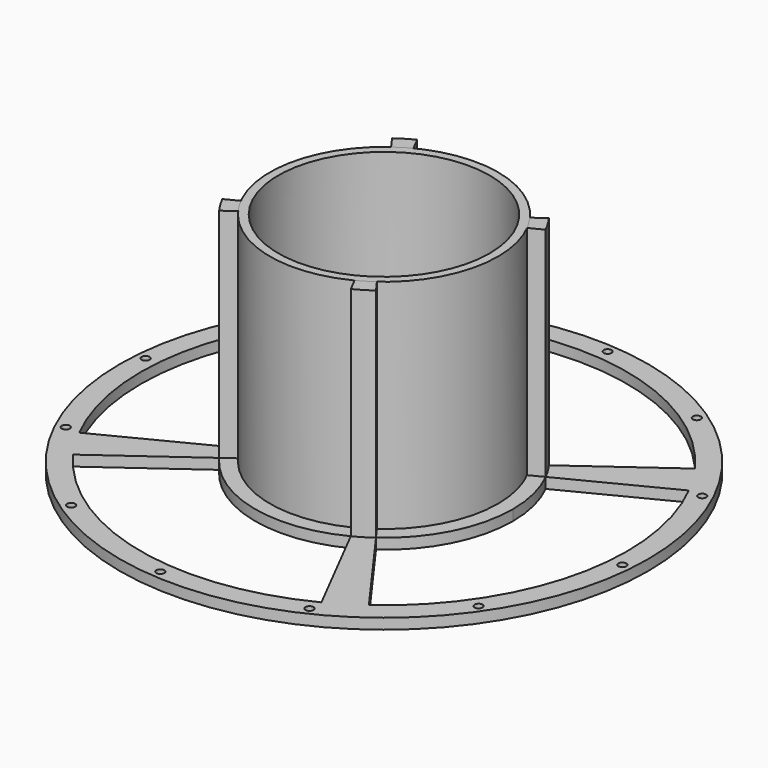
from build123d import *

# Parameters (mm, degrees)
F0_R     = 62.5
F0_R_2   = 0.95
F1_DEPTH = 2.5
F2_DEPTH = 54
F3_R     = 27
F3_R_2   = 25
F4_DEPTH = 54


with BuildPart() as f1:
    # F0 (on Top) → F1 (new body)
    with BuildSketch(Plane.XY):
        Circle(F0_R)
        with Locations((-34.2217646539, -49.7626625001)):
            Circle(F0_R_2, mode=Mode.SUBTRACT)
        with Locations((-4.7555863026, -60.206612212)):
            Circle(F0_R_2, mode=Mode.SUBTRACT)
        with Locations((-54.5182488027, -25.9848475581)):
            Circle(F0_R_2, mode=Mode.SUBTRACT)
        with Locations((25.9848475581, -54.5182488027)):
            Circle(F0_R_2, mode=Mode.SUBTRACT)
        with Locations((49.7626625001, -34.2217646539)):
            Circle(F0_R_2, mode=Mode.SUBTRACT)
        with Locations((60.206612212, -4.7555863026)):
            Circle(F0_R_2, mode=Mode.SUBTRACT)
        with Locations((-60.206612212, 4.7555863026)):
            Circle(F0_R_2, mode=Mode.SUBTRACT)
        with Locations((-49.7626625001, 34.2217646539)):
            Circle(F0_R_2, mode=Mode.SUBTRACT)
        with Locations((-25.9848475581, 54.5182488027)):
            Circle(F0_R_2, mode=Mode.SUBTRACT)
        with BuildLine():
            ThreePointArc((46.5934430221, 33.6942289918), (49.0462021275, 30.0119985484), (51.2085802984, 26.1520802962))
            ThreePointArc((51.2085802984, 26.1520802962), (55.9050237777, 13.4491009521), (57.5, 0))
            ThreePointArc((57.5, 0), (51.2038483272, -26.161343935), (33.6942289918, -46.5934430221))
            ThreePointArc((33.6942289918, -46.5934430221), (30.0119985484, -49.0462021275), (26.1520802962, -51.2085802984))
            ThreePointArc((26.1520802962, -51.2085802984), (-13.4592144253, -55.9025898063), (-46.5934430221, -33.6942289918))
            ThreePointArc((-46.5934430221, -33.6942289918), (-49.0462021275, -30.0119985484), (-51.2085802984, -26.1520802962))
            ThreePointArc((-51.2085802984, -26.1520802962), (-55.9025898063, 13.4592144253), (-33.6942289918, 46.5934430221))
            ThreePointArc((-33.6942289918, 46.5934430221), (-30.0119985484, 49.0462021275), (-26.1520802962, 51.2085802984))
            ThreePointArc((-26.1520802962, 51.2085802984), (13.4592144253, 55.9025898063), (46.5934430221, 33.6942289918))
        make_face(mode=Mode.SUBTRACT)
        with Locations((54.5182488027, 25.9848475581)):
            Circle(F0_R_2, mode=Mode.SUBTRACT)
        with Locations((4.7555863026, 60.206612212)):
            Circle(F0_R_2, mode=Mode.SUBTRACT)
        with Locations((34.2217646539, 49.7626625001)):
            Circle(F0_R_2, mode=Mode.SUBTRACT)
        with BuildLine():
            ThreePointArc((-17.8725910304, 24.7147828204), (-15.9194079257, 26.0158115633), (-13.8719730267, 27.1628121583))
            Line((-13.8719730267, 27.1628121583), (-26.1520802962, 51.2085802984))
            ThreePointArc((-26.1520802962, 51.2085802984), (-30.0119985484, 49.0462021275), (-33.6942289918, 46.5934430221))
            Line((-33.6942289918, 46.5934430221), (-17.8725910304, 24.7147828204))
        make_face()
        with BuildLine():
            ThreePointArc((24.7147828204, 17.8725910304), (26.0158115633, 15.9194079257), (27.1628121583, 13.8719730267))
            Line((27.1628121583, 13.8719730267), (51.2085802984, 26.1520802962))
            ThreePointArc((51.2085802984, 26.1520802962), (49.0462021275, 30.0119985484), (46.5934430221, 33.6942289918))
            Line((46.5934430221, 33.6942289918), (24.7147828204, 17.8725910304))
        make_face()
        with BuildLine():
            Line((-46.5934430221, -33.6942289918), (-24.7147828204, -17.8725910304))
            ThreePointArc((-24.7147828204, -17.8725910304), (-26.0158115633, -15.9194079257), (-27.1628121583, -13.8719730267))
            Line((-27.1628121583, -13.8719730267), (-51.2085802984, -26.1520802962))
            ThreePointArc((-51.2085802984, -26.1520802962), (-49.0462021275, -30.0119985484), (-46.5934430221, -33.6942289918))
        make_face()
        with BuildLine():
            Line((33.6942289918, -46.5934430221), (17.8725910304, -24.7147828204))
            ThreePointArc((17.8725910304, -24.7147828204), (15.9194079257, -26.0158115633), (13.8719730267, -27.1628121583))
            Line((13.8719730267, -27.1628121583), (26.1520802962, -51.2085802984))
            ThreePointArc((26.1520802962, -51.2085802984), (30.0119985484, -49.0462021275), (33.6942289918, -46.5934430221))
        make_face()
        with BuildLine():
            Line((-24.7147828204, -17.8725910304), (-20.6631790793, -14.9426580746))
            ThreePointArc((-20.6631790793, -14.9426580746), (-21.7509244218, -13.3096689215), (-22.7098921323, -11.5978790879))
            Line((-22.7098921323, -11.5978790879), (-27.1628121583, -13.8719730267))
            ThreePointArc((-27.1628121583, -13.8719730267), (-26.0158115633, -15.9194079257), (-24.7147828204, -17.8725910304))
        make_face()
        with BuildLine():
            ThreePointArc((-22.7098921323, -11.5978790879), (-24.7915833054, 5.968869006), (-14.9426580746, 20.6631790793))
            Line((-14.9426580746, 20.6631790793), (-17.8725910304, 24.7147828204))
            ThreePointArc((-17.8725910304, 24.7147828204), (-29.6526780712, 7.1392354778), (-27.1628121583, -13.8719730267))
            Line((-27.1628121583, -13.8719730267), (-22.7098921323, -11.5978790879))
        make_face()
        with BuildLine():
            ThreePointArc((22.7098921323, 11.5978790879), (24.7926627188, 5.9643839005), (25.5, 0))
            ThreePointArc((25.5, 0), (22.707793606, -11.6019873103), (14.9426580746, -20.6631790793))
            Line((14.9426580746, -20.6631790793), (17.8725910304, -24.7147828204))
            ThreePointArc((17.8725910304, -24.7147828204), (27.1603021562, -13.8768867829), (30.5, 0))
            ThreePointArc((30.5, 0), (29.6539691342, 7.1338709398), (27.1628121583, 13.8719730267))
            Line((27.1628121583, 13.8719730267), (22.7098921323, 11.5978790879))
        make_face()
        with BuildLine():
            Line((17.8725910304, -24.7147828204), (14.9426580746, -20.6631790793))
            ThreePointArc((14.9426580746, -20.6631790793), (13.3096689215, -21.7509244218), (11.5978790879, -22.7098921323))
            Line((11.5978790879, -22.7098921323), (13.8719730267, -27.1628121583))
            ThreePointArc((13.8719730267, -27.1628121583), (15.9194079257, -26.0158115633), (17.8725910304, -24.7147828204))
        make_face()
        with BuildLine():
            ThreePointArc((20.6631790793, 14.9426580746), (21.7509244218, 13.3096689215), (22.7098921323, 11.5978790879))
            Line((22.7098921323, 11.5978790879), (27.1628121583, 13.8719730267))
            ThreePointArc((27.1628121583, 13.8719730267), (26.0158115633, 15.9194079257), (24.7147828204, 17.8725910304))
            Line((24.7147828204, 17.8725910304), (20.6631790793, 14.9426580746))
        make_face()
        with BuildLine():
            ThreePointArc((-11.5978790879, 22.7098921323), (5.968869006, 24.7915833054), (20.6631790793, 14.9426580746))
            Line((20.6631790793, 14.9426580746), (24.7147828204, 17.8725910304))
            ThreePointArc((24.7147828204, 17.8725910304), (7.1392354778, 29.6526780712), (-13.8719730267, 27.1628121583))
            Line((-13.8719730267, 27.1628121583), (-11.5978790879, 22.7098921323))
        make_face()
        with BuildLine():
            ThreePointArc((-14.9426580746, 20.6631790793), (-13.3096689215, 21.7509244218), (-11.5978790879, 22.7098921323))
            Line((-11.5978790879, 22.7098921323), (-13.8719730267, 27.1628121583))
            ThreePointArc((-13.8719730267, 27.1628121583), (-15.9194079257, 26.0158115633), (-17.8725910304, 24.7147828204))
            Line((-17.8725910304, 24.7147828204), (-14.9426580746, 20.6631790793))
        make_face()
        with BuildLine():
            Line((13.8719730267, -27.1628121583), (11.5978790879, -22.7098921323))
            ThreePointArc((11.5978790879, -22.7098921323), (-5.968869006, -24.7915833054), (-20.6631790793, -14.9426580746))
            Line((-20.6631790793, -14.9426580746), (-24.7147828204, -17.8725910304))
            ThreePointArc((-24.7147828204, -17.8725910304), (-7.1392354778, -29.6526780712), (13.8719730267, -27.1628121583))
        make_face()
    extrude(amount=F1_DEPTH)


with BuildPart() as f2:
    # F0 (on Top) → F2 (new body)
    with BuildSketch(Plane.XY):
        with BuildLine():
            ThreePointArc((-14.9426580746, 20.6631790793), (-13.3096689215, 21.7509244218), (-11.5978790879, 22.7098921323))
            Line((-11.5978790879, 22.7098921323), (-13.8719730267, 27.1628121583))
            ThreePointArc((-13.8719730267, 27.1628121583), (-15.9194079257, 26.0158115633), (-17.8725910304, 24.7147828204))
            Line((-17.8725910304, 24.7147828204), (-14.9426580746, 20.6631790793))
        make_face()
    extrude(amount=F2_DEPTH)


with BuildPart() as f2b:
    # F0 (on Top) → F2, piece 2 (new body)
    with BuildSketch(Plane.XY):
        with BuildLine():
            ThreePointArc((20.6631790793, 14.9426580746), (21.7509244218, 13.3096689215), (22.7098921323, 11.5978790879))
            Line((22.7098921323, 11.5978790879), (27.1628121583, 13.8719730267))
            ThreePointArc((27.1628121583, 13.8719730267), (26.0158115633, 15.9194079257), (24.7147828204, 17.8725910304))
            Line((24.7147828204, 17.8725910304), (20.6631790793, 14.9426580746))
        make_face()
    extrude(amount=F2_DEPTH)


with BuildPart() as f2c:
    # F0 (on Top) → F2, piece 3 (new body)
    with BuildSketch(Plane.XY):
        with BuildLine():
            Line((-24.7147828204, -17.8725910304), (-20.6631790793, -14.9426580746))
            ThreePointArc((-20.6631790793, -14.9426580746), (-21.7509244218, -13.3096689215), (-22.7098921323, -11.5978790879))
            Line((-22.7098921323, -11.5978790879), (-27.1628121583, -13.8719730267))
            ThreePointArc((-27.1628121583, -13.8719730267), (-26.0158115633, -15.9194079257), (-24.7147828204, -17.8725910304))
        make_face()
    extrude(amount=F2_DEPTH)


with BuildPart() as f2d:
    # F0 (on Top) → F2, piece 4 (new body)
    with BuildSketch(Plane.XY):
        with BuildLine():
            Line((17.8725910304, -24.7147828204), (14.9426580746, -20.6631790793))
            ThreePointArc((14.9426580746, -20.6631790793), (13.3096689215, -21.7509244218), (11.5978790879, -22.7098921323))
            Line((11.5978790879, -22.7098921323), (13.8719730267, -27.1628121583))
            ThreePointArc((13.8719730267, -27.1628121583), (15.9194079257, -26.0158115633), (17.8725910304, -24.7147828204))
        make_face()
    extrude(amount=F2_DEPTH)


with BuildPart() as f4:
    # F3 (on face) → F4 (new body)
    with BuildSketch(Plane.XY):
        Circle(F3_R)
        Circle(F3_R_2, mode=Mode.SUBTRACT)
    extrude(amount=F4_DEPTH)


solid = Compound([f1.part, f2.part, f2b.part, f2c.part, f2d.part, f4.part])
